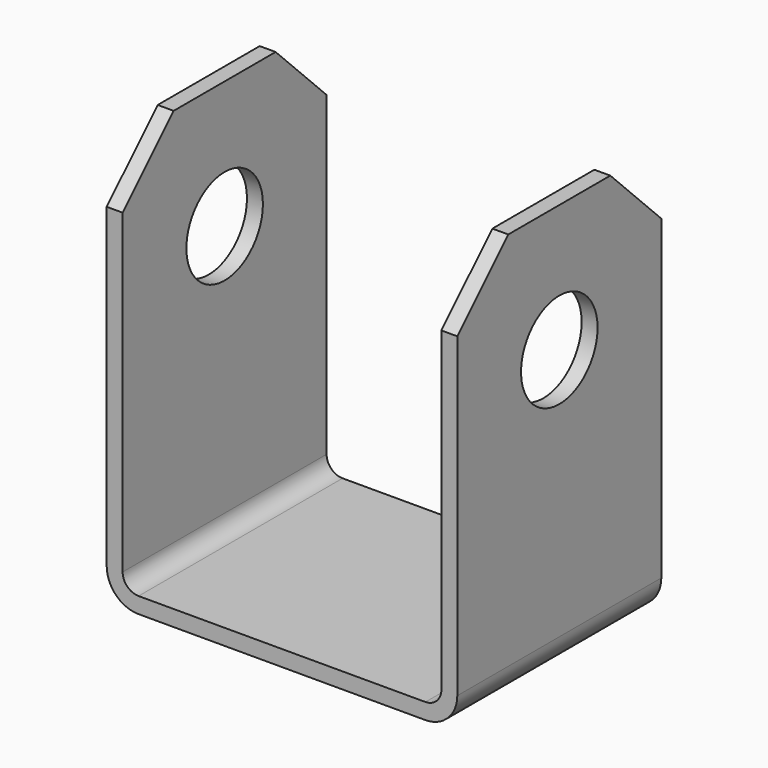
from build123d import *

# Parameters (mm, degrees)
F0_W          = 55
F0_H          = 64.6272003651
F1_DEPTH      = 20
F1_DEPTH_BACK = 20
F2_SIZE       = 10
F3_R          = 5
F4_T          = -2.5
F6_D          = 15


with BuildPart() as f1:
    # F0 (on Front) → F1 (new body, two sides)
    with BuildSketch(Plane.XZ) as f1_sk:
        with Locations((0, 32.3136001825)):
            Rectangle(F0_W, F0_H)
    extrude(amount=F1_DEPTH)
    extrude(f1_sk.sketch, amount=-F1_DEPTH_BACK)

    # F2
    f2_edges = [f1.edges().sort_by_distance(p)[0] for p in [
        (0, -20, 64.6272),
        (0, 20, 64.6272),
    ]]
    chamfer(f2_edges, length=F2_SIZE)

    # F3
    f3_edges = [f1.edges().sort_by_distance(p)[0] for p in [
        (-27.5, 0, 0),
        (27.5, 0, 0),
    ]]
    fillet(f3_edges, radius=F3_R)

    # F4
    f4_openings = [f1.faces().sort_by_distance(p)[0] for p in [
        (0, -20, 27.407493),
        (0, -15, 59.6272),
        (0, 0, 64.6272),
        (0, 15, 59.6272),
        (0, 20, 27.407493),
    ]]
    offset(amount=F4_T, openings=f4_openings)

    # F6 (through all)
    with Locations(Plane(origin=(-27.5, 0, 0), x_dir=(0, -1, 0), z_dir=(-1, 0, 0))):
        with Locations((0, 44.6272003651)):
            Hole(F6_D / 2)


solid = f1.part
